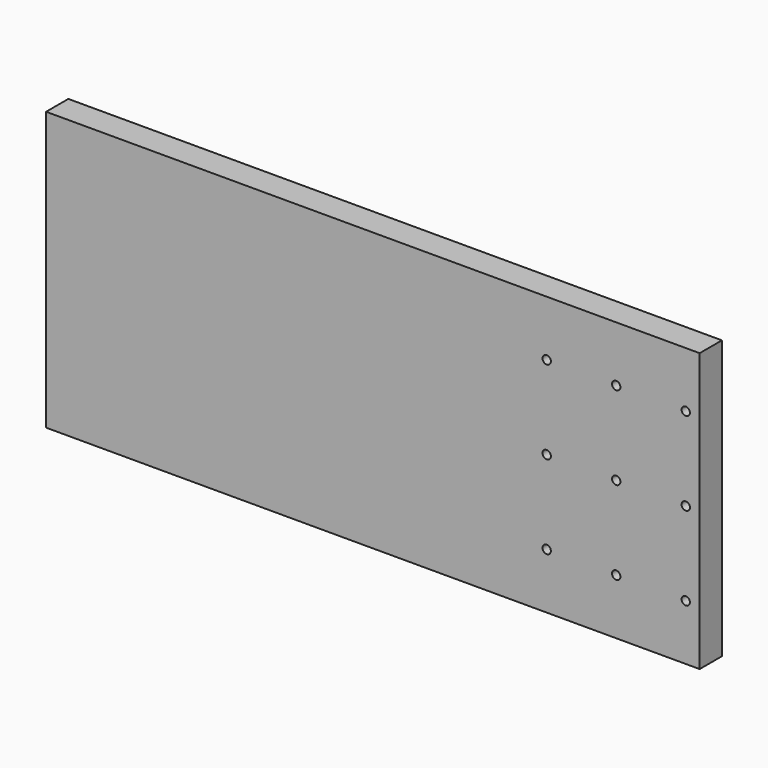
from build123d import *

# Parameters (mm, degrees)
F0_W     = 470
F0_H     = 200
F1_DEPTH = 20
F2_R     = 3
F3_DEPTH = 20
F4_R     = 5.5
F5_DEPTH = 6


with BuildPart() as f1:
    # F0 (on Front) → F1 (new body)
    with BuildSketch(Plane.XZ):
        with Locations((235, 100)):
            Rectangle(F0_W, F0_H)
    extrude(amount=F1_DEPTH)

    # F2 (on face) → F3 (cut)
    with BuildSketch(Plane.XZ.offset(20)):
        with Locations((360, 160)):
            Circle(F2_R)
        with Locations((360, 100)):
            Circle(F2_R)
        with Locations((360, 40)):
            Circle(F2_R)
        with Locations((410, 160)):
            Circle(F2_R)
        with Locations((410, 100)):
            Circle(F2_R)
        with Locations((410, 40)):
            Circle(F2_R)
        with Locations((460, 160)):
            Circle(F2_R)
        with Locations((460, 100)):
            Circle(F2_R)
        with Locations((460, 40)):
            Circle(F2_R)
    extrude(amount=-F3_DEPTH, mode=Mode.SUBTRACT)

    # F4 (on face) → F5 (cut)
    with BuildSketch(Plane(origin=(0, 0, 0), x_dir=(-1, 0, 0), z_dir=(0, 1, 0))):
        with Locations((-460, 160)):
            Circle(F4_R)
        with Locations((-410, 160)):
            Circle(F4_R)
        with Locations((-360, 160)):
            Circle(F4_R)
        with Locations((-360, 100)):
            Circle(F4_R)
        with Locations((-410, 100)):
            Circle(F4_R)
        with Locations((-460, 100)):
            Circle(F4_R)
        with Locations((-460, 40)):
            Circle(F4_R)
        with Locations((-410, 40)):
            Circle(F4_R)
        with Locations((-360, 40)):
            Circle(F4_R)
    extrude(amount=-F5_DEPTH, mode=Mode.SUBTRACT)


solid = f1.part
